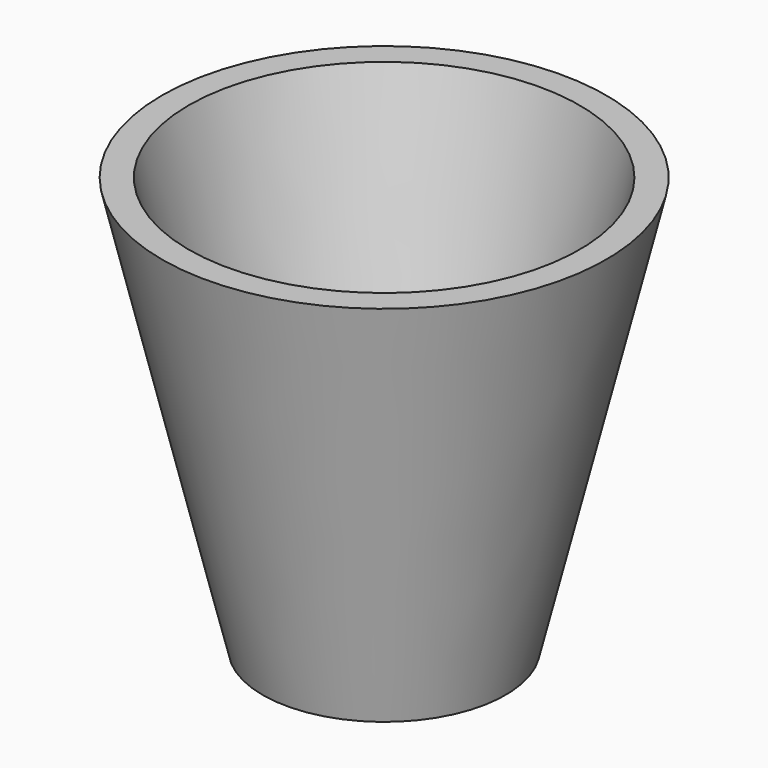
from build123d import *

# Parameters (mm, degrees)
F2_T = 10.16


with BuildPart() as f1:
    # F0 (on Front) → F1 (revolve)
    with BuildSketch(Plane.XZ):
        Polygon((0, 76.9115537405), (-76.3806700706, 76.9115537405), (-39.5061075687, -75.5231827497), (0, -75.5231827497), align=None)
    revolve(axis=Axis((0, 0, 0.6941854954), (0, 0, -1)))

    # F2
    f2_openings = [f1.faces().sort_by_distance(p)[0] for p in [
        (0, 0, 76.911554),
    ]]
    offset(amount=F2_T, openings=f2_openings, kind=Kind.INTERSECTION)


solid = f1.part
